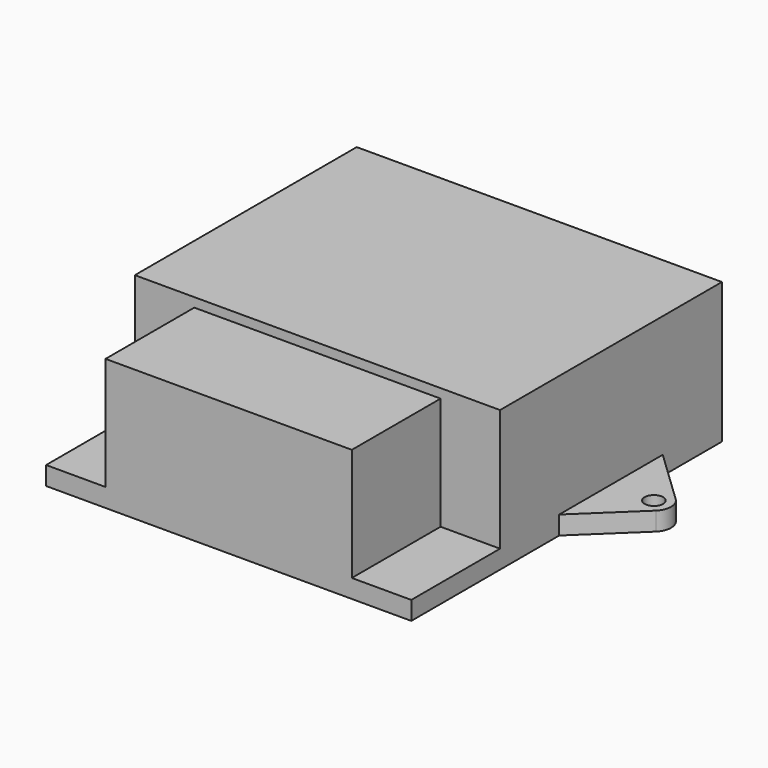
from build123d import *

# Parameters (mm, degrees)
F1_DEPTH = 19.304
F0_W     = 33.8328
F0_H     = 15.24
F2_DEPTH = 18.034
F0_W_2   = 8.1661
F0_R     = 1.27
F3_DEPTH = 2.54


with BuildPart() as f1:
    # F0 (on Top) → F1 (new body)
    with BuildSketch(Plane.XY):
        Polygon((25.0825, 8.89), (25.0825, 19.05), (-25.0825, 19.05), (-25.0825, 8.89), (-25.0825, -8.89), (-25.0825, -19.05), (-16.9164, -19.05), (16.9164, -19.05), (25.0825, -19.05), (25.0825, -8.89), align=None)
    extrude(amount=F1_DEPTH)

    # F0 (on Top) → F2 (join, through all)
    with BuildSketch(Plane.XY):
        with Locations((0, -26.67)):
            Rectangle(F0_W, F0_H)
    extrude(amount=F2_DEPTH)

    # F0 (on Top) → F3 (join)
    with BuildSketch(Plane.XY):
        with Locations((-20.99945, -26.67)):
            Rectangle(F0_W_2, F0_H)
        with Locations((20.99945, -26.67)):
            Rectangle(F0_W_2, F0_H)
        with BuildLine():
            Line((-25.0825, -8.89), (-25.0825, 8.89))
            Line((-25.0825, 8.89), (-32.608938648, 1.7030678618))
            ThreePointArc((-32.608938648, 1.7030678618), (-33.3375, 0), (-32.608938648, -1.7030678618))
            Line((-32.608938648, -1.7030678618), (-25.0825, -8.89))
        make_face()
        with Locations((-30.9826936573, 0)):
            Circle(F0_R, mode=Mode.SUBTRACT)
        with BuildLine():
            Line((32.608938648, 1.7030678618), (25.0825, 8.89))
            Line((25.0825, 8.89), (25.0825, -8.89))
            Line((25.0825, -8.89), (32.608938648, -1.7030678618))
            ThreePointArc((32.608938648, -1.7030678618), (33.3375, 0), (32.608938648, 1.7030678618))
        make_face()
        with Locations((30.9826936573, 0)):
            Circle(F0_R, mode=Mode.SUBTRACT)
    extrude(amount=F3_DEPTH)


solid = f1.part
